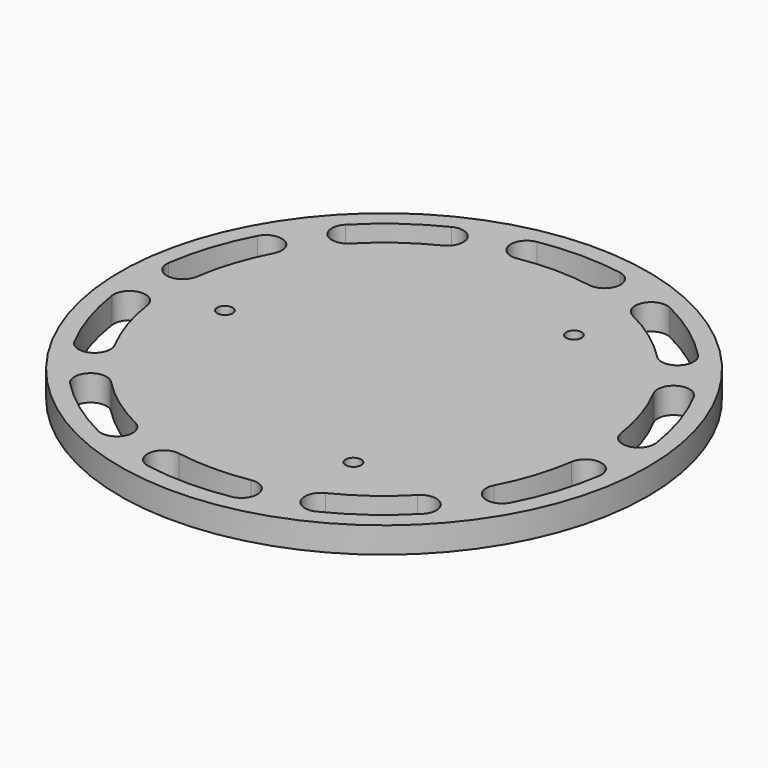
from build123d import *

# Parameters (mm, degrees)
SKETCH015_R        = 51
SKETCH015_R_2      = 1.5
PAD013_DEPTH       = 5
POCKET001_DEPTH    = 5
POLARPATTERN_COUNT = 10


with BuildPart() as part:
    # Sketch015 → Pad013 (new body)
    with BuildSketch(Plane.XY):
        Circle(SKETCH015_R)
        with Locations((15.375, 26.630281)):
            Circle(SKETCH015_R_2, mode=Mode.SUBTRACT)
        with Locations((-30.75, 0)):
            Circle(SKETCH015_R_2, mode=Mode.SUBTRACT)
        with Locations((15.375, -26.630281)):
            Circle(SKETCH015_R_2, mode=Mode.SUBTRACT)
    extrude(amount=-PAD013_DEPTH)

    # Sketch025 → Pocket001 (cut)
    with BuildSketch(Plane.XY):
        with BuildLine():
            ThreePointArc((8.022472, 46.919079), (0, 47.6), (-8.022472, 46.919079))
            ThreePointArc((-8.022472, 46.919079), (-10.555654, 43.340952), (-6.977528, 40.80777))
            ThreePointArc((6.977528, 40.80777), (0, 41.4), (-6.977528, 40.80777))
            ThreePointArc((6.977528, 40.80777), (10.555654, 43.340952), (8.022472, 46.919079))
        make_face()
    pocket001 = extrude(amount=-POCKET001_DEPTH, mode=Mode.SUBTRACT)

    # PolarPattern: Pocket001 ×10 about axis
    polarpattern_axis = Axis((0, 0, 0), (0, 0, 1))
    for i in range(1, POLARPATTERN_COUNT):
        add(pocket001.rotate(polarpattern_axis, i * 360 / POLARPATTERN_COUNT), mode=Mode.SUBTRACT)


solid = part.part
